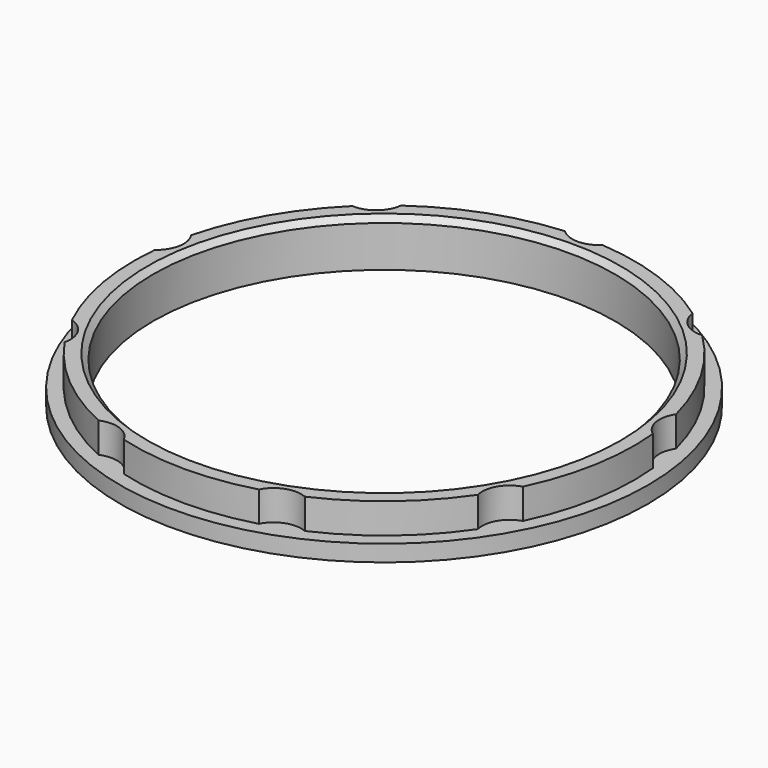
from build123d import *

# Parameters (mm, degrees)
SKETCH_R      = 48
SKETCH_R_2    = 42
PAD_DEPTH     = 3
SKETCH001_R   = 45.5
SKETCH001_R_2 = 42
PAD001_DEPTH  = 5.5
CHAMFER_SIZE  = 1
SKETCH002_R   = 5
POCKET_DEPTH  = 5.501


with BuildPart() as part:
    # Sketch → Pad (new body)
    with BuildSketch(Plane.XY):
        Circle(SKETCH_R)
        Circle(SKETCH_R_2, mode=Mode.SUBTRACT)
    extrude(amount=PAD_DEPTH)

    # Sketch001 (on Face4 of Pad) → Pad001 (join)
    with BuildSketch(Plane.XY.offset(3)):
        Circle(SKETCH001_R)
        Circle(SKETCH001_R_2, mode=Mode.SUBTRACT)
    extrude(amount=PAD001_DEPTH)

    # Chamfer
    chamfer_edges = [part.edges().sort_by_distance(p)[0] for p in [
        (-42, 0, 8.5),
    ]]
    chamfer(chamfer_edges, length=CHAMFER_SIZE)

    # Sketch002 → Pocket (cut, through all)
    with BuildSketch(Plane.XY.offset(3)):
        with Locations((31.496593, 37.536178)):
            Circle(SKETCH002_R)
        with Locations((48.25558, 8.508761)):
            Circle(SKETCH002_R)
        with Locations((42.435245, -24.5)):
            Circle(SKETCH002_R)
        with Locations((16.758987, -46.044938)):
            Circle(SKETCH002_R)
        with Locations((-16.758987, -46.044938)):
            Circle(SKETCH002_R)
        with Locations((-42.435245, -24.5)):
            Circle(SKETCH002_R)
        with Locations((-48.25558, 8.508761)):
            Circle(SKETCH002_R)
        with Locations((-31.496593, 37.536178)):
            Circle(SKETCH002_R)
        with Locations((0, 49)):
            Circle(SKETCH002_R)
    extrude(amount=POCKET_DEPTH, mode=Mode.SUBTRACT)


solid = part.part
